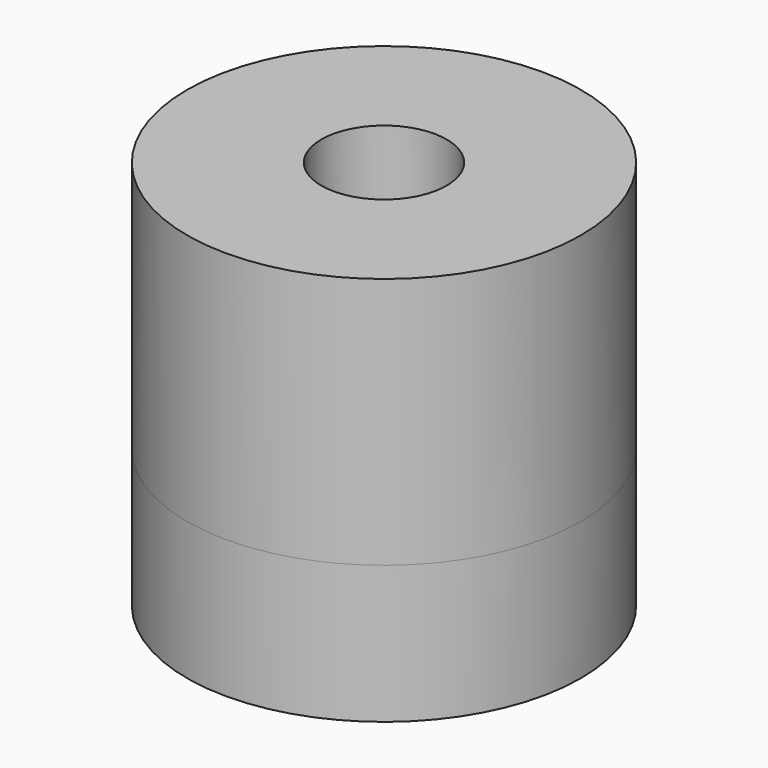
from build123d import *

# Parameters (mm, degrees)
F2_R      = 6.35
F3_DEPTH  = 4.445
F4_R      = 9.525
F5_DEPTH  = 8.128
F6_W      = 38.1
F6_H      = 14.9352
F8_DEPTH  = 25.4
F9_D      = 9.8044
F9_DEPTH  = 5.842
F9_TIP    = 2.9455389266
F10_D     = 4.0386
F11_R     = 22.559553958
F11_R_2   = 6.35
F12_DEPTH = 25.4


with BuildPart() as f3:
    # F2 (on Top) → F3 (new body, through all)
    with BuildSketch(Plane.XY):
        Circle(F2_R)
    extrude(amount=-F3_DEPTH)

    # F4 (on Top) → F5 (join, through all)
    with BuildSketch(Plane.XY):
        Circle(F4_R)
    extrude(amount=F5_DEPTH)

    # F6 (on Top) → F8 (cut)
    with BuildSketch(Plane.XY):
        with Locations((0, -14.9352)):
            Rectangle(F6_W, F6_H)
        with Locations((0, 14.9352)):
            Rectangle(F6_W, F6_H)
    extrude(amount=F8_DEPTH, mode=Mode.SUBTRACT)

    # F9
    with Locations(Plane(origin=(0, 0, -4.445), x_dir=(1, 0, 0), z_dir=(0, 0, -1))):
        with Locations((0, 0)):
            Hole(F9_D / 2, depth=F9_DEPTH)
            with Locations((0, 0, -(F9_DEPTH + F9_TIP / 2))):  # 118° drill point
                Cone(0, F9_D / 2, F9_TIP, mode=Mode.SUBTRACT)

    # F10 (through all)
    with Locations(Plane(origin=(0, 0, -4.445), x_dir=(1, 0, 0), z_dir=(0, 0, -1))):
        with Locations((0, 0)):
            Hole(F10_D / 2)

    # F11 (on offset) → F12 (cut)
    with BuildSketch(Plane.XY.offset(-4.445)):
        Circle(F11_R)
        Circle(F11_R_2, mode=Mode.SUBTRACT)
    extrude(amount=F12_DEPTH, mode=Mode.SUBTRACT)


solid = f3.part
